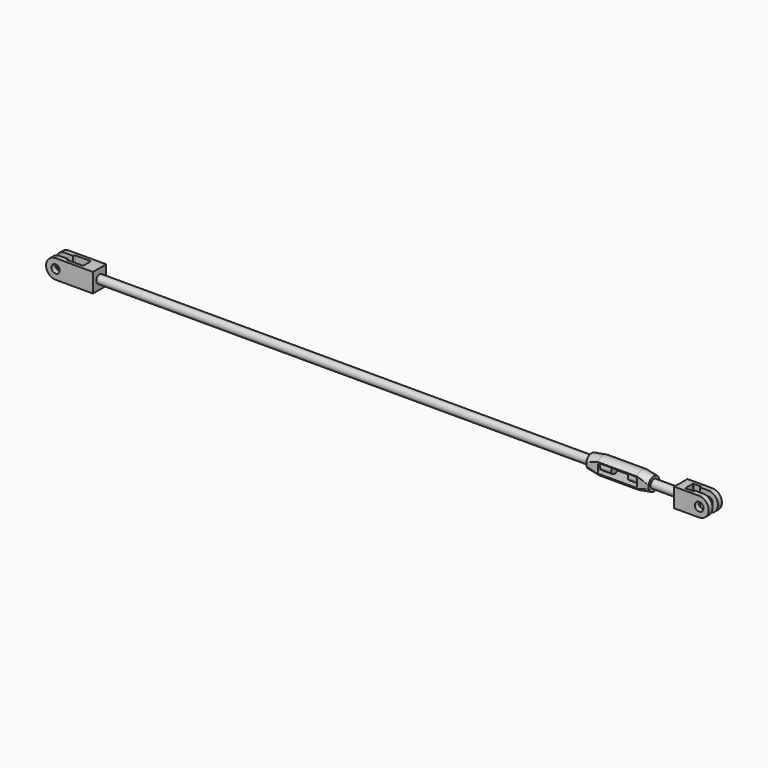
from build123d import *

# Parameters (mm, degrees)
CYLINDER_R        = 10
CYLINDER_DEPTH    = 120
EXTRUDE003_DEPTH  = 80
SKETCH009_R       = 10.5
EXTRUDE002_DEPTH  = 20
SKETCH014_R       = 10
EXTRUDE006_DEPTH  = 150
EXTRUDE005_DEPTH  = 30
SKETCH012_W       = 15
SKETCH012_H       = 79.05159
SKETCH012_H_2     = 80
EXTRUDE004_DEPTH  = 150
CYLINDER001_R     = 10
CYLINDER001_DEPTH = 1278
SKETCH007_R       = 10
EXTRUDE_DEPTH     = 65
SKETCH017_R       = 10
EXTRUDE008_DEPTH  = 30
EXTRUDE007_DEPTH  = 75
PAD_DEPTH         = 20


with BuildPart() as cylinder:
    # Cylinder → Cylinder (new body)
    with BuildSketch(Plane.ZY.offset(60)):
        Circle(CYLINDER_R)
    extrude(amount=CYLINDER_DEPTH)


with BuildPart() as extrude003:
    # Sketch010 (on Face2 of Extrude002) → Extrude003 (new body)
    with BuildSketch(Plane.XY.offset(23)):
        with BuildLine():
            Line((23, 8), (-20, 8))
            Line((-20, 8), (-20, 10.999988))
            ThreePointArc((-20, 10.999988), (-20.292889, 11.707103), (-21, 12))
            Line((-21, 12), (-39, 12))
            ThreePointArc((-39, 12), (-39.707107, 11.707107), (-40, 11))
            Line((-40, 11), (-40, -11))
            ThreePointArc((-40, -11), (-39.707107, -11.707107), (-39, -12))
            Line((-39, -12), (-21, -12))
            ThreePointArc((-21, -12), (-20.292893, -11.707107), (-20, -11))
            Line((-20, -11), (-20, -8))
            Line((-20, -8), (23, -8))
            Line((23, -8), (23, 8))
        make_face()
    extrude(amount=-EXTRUDE003_DEPTH)


with BuildPart() as obj1:
    # Sketch009 → Extrude002 (new body, symmetric)
    with BuildSketch(Plane.XZ):
        with BuildLine():
            ThreePointArc((0, -23), (23, 0), (0, 23))
            Line((0, 23), (-60, 23))
            Line((-60, 23), (-60, -23))
            Line((-60, -23), (0, -23))
        make_face()
        Circle(SKETCH009_R, mode=Mode.SUBTRACT)
    extrude(amount=EXTRUDE002_DEPTH, both=True)

    # Cut003: cut Extrude003
    add(extrude003.part, mode=Mode.SUBTRACT)

    # Fusion: union Cylinder
    add(cylinder.part)


with BuildPart() as extrude006:
    # Sketch014 → Extrude006 (new body, symmetric)
    with BuildSketch(Plane.YZ):
        Circle(SKETCH014_R)
    extrude(amount=EXTRUDE006_DEPTH, both=True)


with BuildPart() as extrude005:
    # Sketch013 → Extrude005 (new body, symmetric)
    with BuildSketch(Plane.XZ):
        with BuildLine():
            Line((47, 6.5), (47, -6.5))
            ThreePointArc((42, -11.5), (45.535534, -10.035534), (47, -6.5))
            Line((42, -11.5), (-42, -11.5))
            ThreePointArc((-47, -6.5), (-45.535534, -10.035534), (-42, -11.5))
            Line((-47, -6.5), (-47, 6.5))
            ThreePointArc((-42, 11.5), (-45.535534, 10.035534), (-47, 6.5))
            Line((-42, 11.5), (42, 11.5))
            ThreePointArc((47, 6.5), (45.535534, 10.035534), (42, 11.5))
        make_face()
    extrude(amount=EXTRUDE005_DEPTH, both=True)


with BuildPart() as extrude004:
    # Sketch012 → Extrude004 (new body, symmetric)
    with BuildSketch(Plane.YZ):
        with Locations((-24, 0.159191)):
            Rectangle(SKETCH012_W, SKETCH012_H)
        with Locations((24, -0.315014)):
            Rectangle(SKETCH012_W, SKETCH012_H_2)
    extrude(amount=EXTRUDE004_DEPTH, both=True)


with BuildPart() as obj2:
    # Sketch011 → Revolve (revolve)
    with BuildSketch(Plane.XZ):
        Polygon((-75, 0), (-75, 16.5), (-47, 21), (47, 21), (75, 16.5), (75, 0), align=None)
    revolve(axis=Axis((-75, 0, 0), (-1, 0, 0)))

    # Cut004: cut Extrude004
    add(extrude004.part, mode=Mode.SUBTRACT)

    # Cut005: cut Extrude005
    add(extrude005.part, mode=Mode.SUBTRACT)

    # Cut006: cut Extrude006
    add(extrude006.part, mode=Mode.SUBTRACT)


with BuildPart() as obj2_1:
    # Cut006 placement: moved
    add(obj2.part.moved(Location((-200, 0, 0))))


with BuildPart() as rod:
    # Cylinder001 → Cylinder001 (new body)
    with BuildSketch(Plane.ZY.offset(220)):
        Circle(CYLINDER001_R)
    extrude(amount=CYLINDER001_DEPTH)


with BuildPart() as extrude_body:
    # Sketch007 (on Face6 of Pad) → Extrude (new body)
    with BuildSketch(Plane.XZ.offset(20)):
        Circle(SKETCH007_R)
    extrude(amount=-EXTRUDE_DEPTH)


with BuildPart() as extrude008:
    # Sketch017 → Extrude008 (new body)
    with BuildSketch(Plane.YZ.offset(90)):
        Circle(SKETCH017_R)
    extrude(amount=EXTRUDE008_DEPTH)


with BuildPart() as extrude007:
    # Sketch016 → Extrude007 (new body, symmetric)
    with BuildSketch(Plane.XY):
        with BuildLine():
            Line((-23, 8), (20, 8))
            Line((20, 8), (20, 10))
            ThreePointArc((22, 12), (20.585786, 11.414214), (20, 10))
            Line((22, 12), (58, 12))
            ThreePointArc((60, 10), (59.414214, 11.414214), (58, 12))
            Line((60, 10), (60, -10))
            ThreePointArc((58, -12), (59.414214, -11.414214), (60, -10))
            Line((58, -12), (22, -12))
            ThreePointArc((20, -10), (20.585786, -11.414214), (22, -12))
            Line((20, -10), (20, -8))
            Line((20, -8), (-23, -8))
            Line((-23, -8), (-23, 8))
        make_face()
    extrude(amount=EXTRUDE007_DEPTH, both=True)


with BuildPart() as obj3:
    # Sketch → Pad (new body, symmetric)
    with BuildSketch(Plane.XZ):
        with BuildLine():
            Line((90, 23), (0, 23))
            ThreePointArc((0, 23), (-23, 0), (0, -23))
            Line((0, -23), (90, -23))
            Line((90, -23), (90, 23))
        make_face()
    extrude(amount=PAD_DEPTH, both=True)

    # Cut: cut Extrude007
    add(extrude007.part, mode=Mode.SUBTRACT)

    # Cut007: cut Extrude008
    add(extrude008.part, mode=Mode.SUBTRACT)

    # Cut008: cut Extrude body
    add(extrude_body.part, mode=Mode.SUBTRACT)


with BuildPart() as obj3_1:
    # Cut008 placement: moved
    add(obj3.part.moved(Location((-1552, 0, 0))))


solid = Compound([obj1.part, obj2_1.part, rod.part, obj3_1.part])
